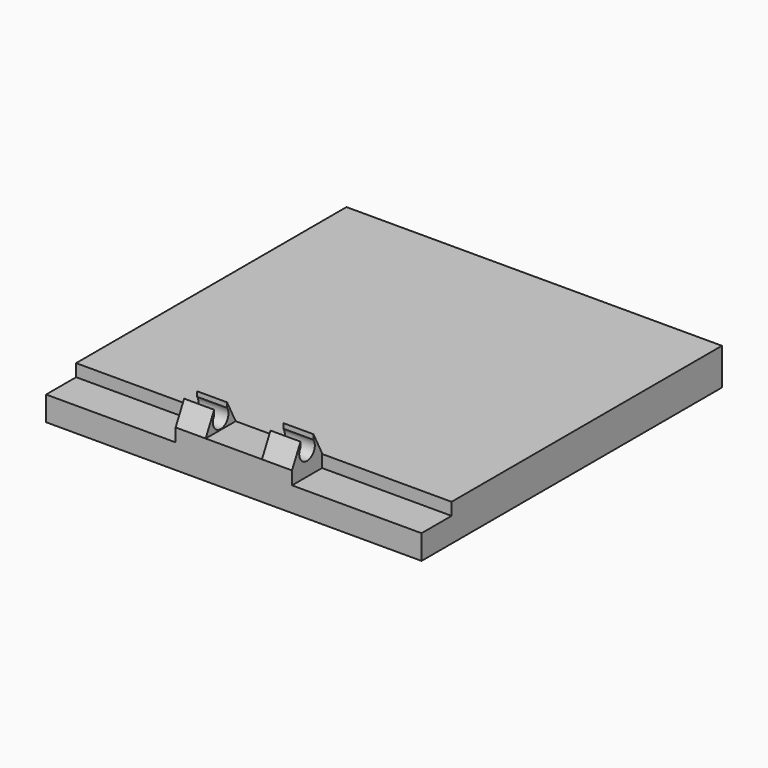
from build123d import *

# Parameters (mm, degrees)
F0_W      = 25.4
F0_H      = 25.4
F1_DEPTH  = 2.54
F2_W      = 10.16
F2_H      = 2.54
F3_DEPTH  = 1.4224
F5_W      = 1.143
F5_H      = 1.4224
F5_W_2    = 3.81
F6_DEPTH  = 25.4
F7_DEPTH  = 25.4
F8_W      = 8.763
F8_H      = 2.54
F9_DEPTH  = 0.889
F10_W     = 22.86
F10_H     = 0.0508
F11_DEPTH = 25.4


with BuildPart() as f1:
    # F0 (on Top) → F1 (new body)
    with BuildSketch(Plane.XY):
        with Locations((2.984056, 5.665214)):
            Rectangle(F0_W, F0_H)
    extrude(amount=-F1_DEPTH)

    # F2 (on face) → F3 (join)
    with BuildSketch(Plane.XY):
        with Locations((2.984056, -5.764786)):
            Rectangle(F2_W, F2_H)
    extrude(amount=F3_DEPTH)

    # F5 (on face) → F6 (cut)
    with BuildSketch(Plane.XZ.offset(7.034786)):
        with Locations((-1.524444, 0.7112)):
            Rectangle(F5_W, F5_H)
        with Locations((2.984056, 0.7112)):
            Rectangle(F5_W_2, F5_H)
        with Locations((7.492556, 0.7112)):
            Rectangle(F5_W, F5_H)
    extrude(amount=-F6_DEPTH, mode=Mode.SUBTRACT)

    # F4 (on face) → F7 (cut)
    with BuildSketch(Plane(origin=(-2.095944, 0, 0), x_dir=(0, -1, 0), z_dir=(-1, 0, 0))):
        Polygon((4.494786, 0), (5.224647, 1.4224), (4.494786, 1.4224), align=None)
        with BuildLine():
            ThreePointArc((5.224647, 1.091172), (5.565511, 0.081583), (6.425186, 0.7112))
            ThreePointArc((6.425186, 0.7112), (6.39704, 0.901944), (6.315001, 1.076428))
            ThreePointArc((6.315001, 1.076428), (5.773715, 1.37154), (5.224647, 1.091172))
        make_face()
        with BuildLine():
            ThreePointArc((5.224647, 1.091172), (5.773715, 1.37154), (6.315001, 1.076428))
            Line((6.315001, 1.076428), (6.315001, 1.4224))
            Line((6.315001, 1.4224), (5.224647, 1.4224))
            Line((5.224647, 1.4224), (5.224647, 1.091172))
        make_face()
        Polygon((7.034786, 1.4224), (6.315001, 1.4224), (7.034786, 0), align=None)
    extrude(amount=-F7_DEPTH, mode=Mode.SUBTRACT)

    # F8 (on face) → F9 (cut)
    with BuildSketch(Plane.XY):
        with Locations((11.302556, -5.764786)):
            Rectangle(F8_W, F8_H)
        with Locations((-5.334444, -5.764786)):
            Rectangle(F8_W, F8_H)
    extrude(amount=-F9_DEPTH, mode=Mode.SUBTRACT)

    # F10 (on face) → F11 (cut)
    with BuildSketch(Plane.YZ.offset(15.684056)):
        with Locations((6.935214, -0.0254)):
            Rectangle(F10_W, F10_H)
    extrude(amount=-F11_DEPTH, mode=Mode.SUBTRACT)


solid = f1.part
